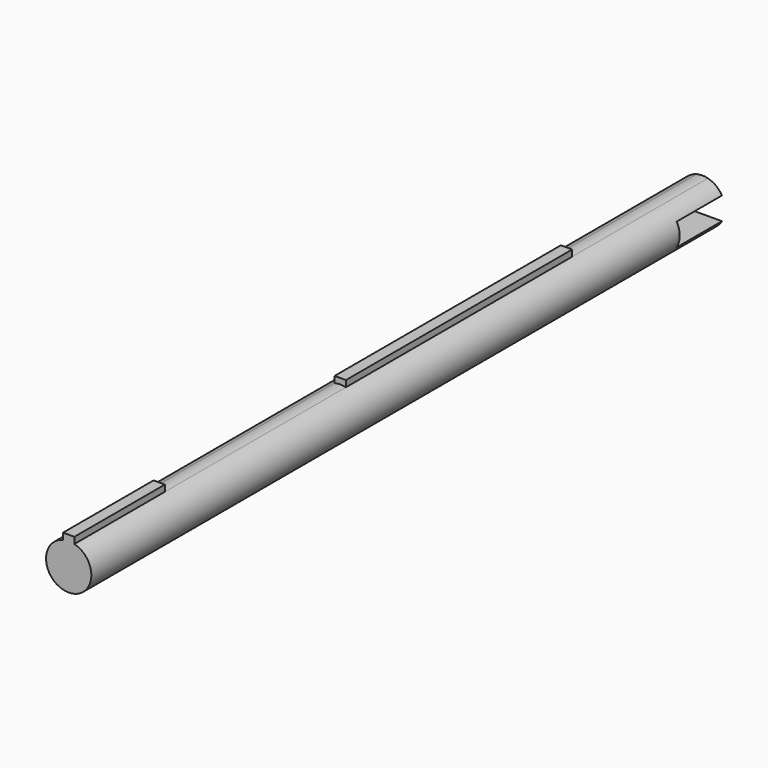
from build123d import *

# Parameters (mm, degrees)
F1_DEPTH = 70
F4_DEPTH = 20
F6_DEPTH = 15
F7_W     = 6
F7_H     = 2
F8_DEPTH = 5


with BuildPart() as f1:
    # F0 (on Front) → F1 (new body)
    with BuildSketch(Plane.XZ):
        with BuildLine():
            Line((-0.5, 2.5), (-0.5, 1.9364916731))
            ThreePointArc((-0.5, 1.9364916731), (0, -2), (0.5, 1.9364916731))
            Line((0.5, 1.9364916731), (0.5, 2.5))
            Line((0.5, 2.5), (-0.5, 2.5))
        make_face()
        with BuildLine():
            Line((-0.5, 2.5), (-0.5, 1.9364916731))
            ThreePointArc((-0.5, 1.9364916731), (0, -2), (0.5, 1.9364916731))
            Line((0.5, 1.9364916731), (0.5, 2.5))
            Line((0.5, 2.5), (-0.5, 2.5))
        make_face()
    extrude(amount=F1_DEPTH)

    # F3 (on offset) → F4 (cut)
    with BuildSketch(Plane.XZ.offset(60)):
        with BuildLine():
            ThreePointArc((-0.5, 1.9364916731), (0.0006379585, 1.9999998983), (0.5012352994, 1.9361722998))
            Line((0.5012352994, 1.9361722998), (0.5, 2.5))
            Line((0.5, 2.5), (-0.5, 2.5))
            Line((-0.5, 2.5), (-0.5, 1.9364916731))
        make_face()
    extrude(amount=-F4_DEPTH, mode=Mode.SUBTRACT)

    # F5 (on face) → F6 (cut)
    with BuildSketch(Plane(origin=(0, 0, 0), x_dir=(-1, 0, 0), z_dir=(0, 1, 0))):
        with BuildLine():
            Line((-0.5, 2.5), (-0.5, 1.9364916731))
            ThreePointArc((-0.5, 1.9364916731), (0, 2), (0.5, 1.9364916731))
            Line((0.5, 1.9364916731), (0.5, 2.5))
            Line((0.5, 2.5), (-0.5, 2.5))
        make_face()
    extrude(amount=-F6_DEPTH, mode=Mode.SUBTRACT)

    # F7 (on face) → F8 (cut)
    with BuildSketch(Plane(origin=(0, 0, 0), x_dir=(-1, 0, 0), z_dir=(0, 1, 0))):
        Rectangle(F7_W, F7_H)
    extrude(amount=-F8_DEPTH, mode=Mode.SUBTRACT)


solid = f1.part
